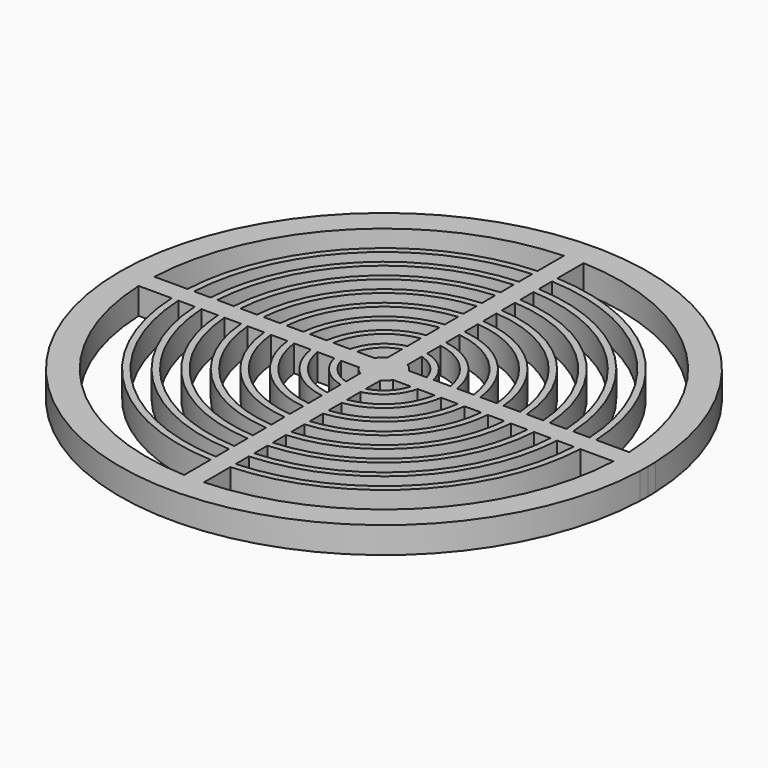
from build123d import *

# Parameters (mm, degrees)
F1_DEPTH = 2


with BuildPart() as f1:
    # F0 (on Top) → F1 (new body)
    with BuildSketch(Plane.XY):
        with BuildLine():
            ThreePointArc((19.985933, -0.75), (19.996483, -0.375066), (20, 0))
            ThreePointArc((20, 0), (19.996483, 0.375066), (19.985933, 0.75))
            ThreePointArc((19.985933, 0.75), (-20, 0), (19.985933, -0.75))
        make_face()
        with BuildLine():
            Line((-0.75, -15.481844), (-0.75, -17.984368))
            ThreePointArc((-0.75, -17.984368), (-12.727922, -12.727922), (-17.984368, -0.75))
            Line((-17.984368, -0.75), (-15.481844, -0.75))
            ThreePointArc((-15.481844, -0.75), (-10.960155, -10.960155), (-0.75, -15.481844))
        make_face(mode=Mode.SUBTRACT)
        with BuildLine():
            Line((-0.75, -13.72953), (-0.75, -14.981238))
            ThreePointArc((-0.75, -14.981238), (-10.606602, -10.606602), (-14.981238, -0.75))
            Line((-14.981238, -0.75), (-13.72953, -0.75))
            ThreePointArc((-13.72953, -0.75), (-9.722718, -9.722718), (-0.75, -13.72953))
        make_face(mode=Mode.SUBTRACT)
        with BuildLine():
            Line((-0.75, -11.97654), (-0.75, -13.228757))
            ThreePointArc((-0.75, -13.228757), (-9.369165, -9.369165), (-13.228757, -0.75))
            Line((-13.228757, -0.75), (-11.97654, -0.75))
            ThreePointArc((-11.97654, -0.75), (-8.485281, -8.485281), (-0.75, -11.97654))
        make_face(mode=Mode.SUBTRACT)
        with BuildLine():
            Line((-0.75, -10.222524), (-0.75, -11.475517))
            ThreePointArc((-0.75, -11.475517), (-8.131728, -8.131728), (-11.475517, -0.75))
            Line((-11.475517, -0.75), (-10.222524, -0.75))
            ThreePointArc((-10.222524, -0.75), (-7.247845, -7.247845), (-0.75, -10.222524))
        make_face(mode=Mode.SUBTRACT)
        with BuildLine():
            Line((-0.75, -8.466847), (-0.75, -9.721111))
            ThreePointArc((-0.75, -9.721111), (-6.894291, -6.894291), (-9.721111, -0.75))
            Line((-9.721111, -0.75), (-8.466847, -0.75))
            ThreePointArc((-8.466847, -0.75), (-6.010408, -6.010408), (-0.75, -8.466847))
        make_face(mode=Mode.SUBTRACT)
        with BuildLine():
            Line((0.75, -13.228757), (0.75, -11.97654))
            ThreePointArc((0.75, -11.97654), (8.485281, -8.485281), (11.97654, -0.75))
            Line((11.97654, -0.75), (13.228757, -0.75))
            ThreePointArc((13.228757, -0.75), (9.369165, -9.369165), (0.75, -13.228757))
        make_face(mode=Mode.SUBTRACT)
        with BuildLine():
            Line((0.75, -9.721111), (0.75, -8.466847))
            ThreePointArc((0.75, -8.466847), (6.010408, -6.010408), (8.466847, -0.75))
            Line((8.466847, -0.75), (9.721111, -0.75))
            ThreePointArc((9.721111, -0.75), (6.894291, -6.894291), (0.75, -9.721111))
        make_face(mode=Mode.SUBTRACT)
        with BuildLine():
            Line((0.75, -11.475517), (0.75, -10.222524))
            ThreePointArc((0.75, -10.222524), (7.247845, -7.247845), (10.222524, -0.75))
            Line((10.222524, -0.75), (11.475517, -0.75))
            ThreePointArc((11.475517, -0.75), (8.131728, -8.131728), (0.75, -11.475517))
        make_face(mode=Mode.SUBTRACT)
        with BuildLine():
            Line((-0.75, -6.708204), (-0.75, -7.964766))
            ThreePointArc((-0.75, -7.964766), (-5.656854, -5.656854), (-7.964766, -0.75))
            Line((-7.964766, -0.75), (-6.708204, -0.75))
            ThreePointArc((-6.708204, -0.75), (-4.772971, -4.772971), (-0.75, -6.708204))
        make_face(mode=Mode.SUBTRACT)
        with BuildLine():
            Line((-0.75, -4.94343), (-0.75, -6.204837))
            ThreePointArc((-0.75, -6.204837), (-4.419417, -4.419417), (-6.204837, -0.75))
            Line((-6.204837, -0.75), (-4.94343, -0.75))
            ThreePointArc((-4.94343, -0.75), (-3.535534, -3.535534), (-0.75, -4.94343))
        make_face(mode=Mode.SUBTRACT)
        with BuildLine():
            Line((-0.75, -3.162278), (-0.75, -4.43706))
            ThreePointArc((-0.75, -4.43706), (-3.181981, -3.181981), (-4.43706, -0.75))
            Line((-4.43706, -0.75), (-3.162278, -0.75))
            ThreePointArc((-3.162278, -0.75), (-2.298097, -2.298097), (-0.75, -3.162278))
        make_face(mode=Mode.SUBTRACT)
        with BuildLine():
            Line((-0.75, -1.299038), (-0.75, -2.645751))
            ThreePointArc((-0.75, -2.645751), (-1.944544, -1.944544), (-2.645751, -0.75))
            Line((-2.645751, -0.75), (-1.299038, -0.75))
            ThreePointArc((-1.299038, -0.75), (-1.06066, -1.06066), (-0.75, -1.299038))
        make_face(mode=Mode.SUBTRACT)
        with BuildLine():
            Line((0.75, -6.204837), (0.75, -4.94343))
            ThreePointArc((0.75, -4.94343), (3.535534, -3.535534), (4.94343, -0.75))
            Line((4.94343, -0.75), (6.204837, -0.75))
            ThreePointArc((6.204837, -0.75), (4.419417, -4.419417), (0.75, -6.204837))
        make_face(mode=Mode.SUBTRACT)
        with BuildLine():
            ThreePointArc((4.43706, -0.75), (3.181981, -3.181981), (0.75, -4.43706))
            Line((0.75, -4.43706), (0.75, -3.162278))
            ThreePointArc((0.75, -3.162278), (2.298097, -2.298097), (3.162278, -0.75))
            Line((3.162278, -0.75), (4.43706, -0.75))
        make_face(mode=Mode.SUBTRACT)
        with BuildLine():
            Line((0.75, -7.964766), (0.75, -6.708204))
            ThreePointArc((0.75, -6.708204), (4.772971, -4.772971), (6.708204, -0.75))
            Line((6.708204, -0.75), (7.964766, -0.75))
            ThreePointArc((7.964766, -0.75), (5.656854, -5.656854), (0.75, -7.964766))
        make_face(mode=Mode.SUBTRACT)
        with BuildLine():
            ThreePointArc((2.645751, -0.75), (1.944544, -1.944544), (0.75, -2.645751))
            Line((0.75, -2.645751), (0.75, -1.299038))
            ThreePointArc((0.75, -1.299038), (1.06066, -1.06066), (1.299038, -0.75))
            Line((1.299038, -0.75), (2.645751, -0.75))
        make_face(mode=Mode.SUBTRACT)
        with BuildLine():
            Line((0.75, -17.984368), (0.75, -15.481844))
            ThreePointArc((0.75, -15.481844), (10.960155, -10.960155), (15.481844, -0.75))
            Line((15.481844, -0.75), (17.984368, -0.75))
            ThreePointArc((17.984368, -0.75), (12.727922, -12.727922), (0.75, -17.984368))
        make_face(mode=Mode.SUBTRACT)
        with BuildLine():
            Line((0.75, -14.981238), (0.75, -13.72953))
            ThreePointArc((0.75, -13.72953), (9.722718, -9.722718), (13.72953, -0.75))
            Line((13.72953, -0.75), (14.981238, -0.75))
            ThreePointArc((14.981238, -0.75), (10.606602, -10.606602), (0.75, -14.981238))
        make_face(mode=Mode.SUBTRACT)
        with BuildLine():
            Line((-11.97654, 0.75), (-13.228757, 0.75))
            ThreePointArc((-13.228757, 0.75), (-9.369165, 9.369165), (-0.75, 13.228757))
            Line((-0.75, 13.228757), (-0.75, 11.97654))
            ThreePointArc((-0.75, 11.97654), (-8.485281, 8.485281), (-11.97654, 0.75))
        make_face(mode=Mode.SUBTRACT)
        with BuildLine():
            Line((-13.72953, 0.75), (-14.981238, 0.75))
            ThreePointArc((-14.981238, 0.75), (-10.606602, 10.606602), (-0.75, 14.981238))
            Line((-0.75, 14.981238), (-0.75, 13.72953))
            ThreePointArc((-0.75, 13.72953), (-9.722718, 9.722718), (-13.72953, 0.75))
        make_face(mode=Mode.SUBTRACT)
        with BuildLine():
            Line((-15.481844, 0.75), (-17.984368, 0.75))
            ThreePointArc((-17.984368, 0.75), (-12.727922, 12.727922), (-0.75, 17.984368))
            Line((-0.75, 17.984368), (-0.75, 15.481844))
            ThreePointArc((-0.75, 15.481844), (-10.960155, 10.960155), (-15.481844, 0.75))
        make_face(mode=Mode.SUBTRACT)
        with BuildLine():
            Line((-0.75, 2.645751), (-0.75, 1.299038))
            ThreePointArc((-0.75, 1.299038), (-1.06066, 1.06066), (-1.299038, 0.75))
            Line((-1.299038, 0.75), (-2.645751, 0.75))
            ThreePointArc((-2.645751, 0.75), (-1.944544, 1.944544), (-0.75, 2.645751))
        make_face(mode=Mode.SUBTRACT)
        with BuildLine():
            Line((-4.94343, 0.75), (-6.204837, 0.75))
            ThreePointArc((-6.204837, 0.75), (-4.419417, 4.419417), (-0.75, 6.204837))
            Line((-0.75, 6.204837), (-0.75, 4.94343))
            ThreePointArc((-0.75, 4.94343), (-3.535534, 3.535534), (-4.94343, 0.75))
        make_face(mode=Mode.SUBTRACT)
        with BuildLine():
            Line((-6.708204, 0.75), (-7.964766, 0.75))
            ThreePointArc((-7.964766, 0.75), (-5.656854, 5.656854), (-0.75, 7.964766))
            Line((-0.75, 7.964766), (-0.75, 6.708204))
            ThreePointArc((-0.75, 6.708204), (-4.772971, 4.772971), (-6.708204, 0.75))
        make_face(mode=Mode.SUBTRACT)
        with BuildLine():
            Line((-3.162278, 0.75), (-4.43706, 0.75))
            ThreePointArc((-4.43706, 0.75), (-3.181981, 3.181981), (-0.75, 4.43706))
            Line((-0.75, 4.43706), (-0.75, 3.162278))
            ThreePointArc((-0.75, 3.162278), (-2.298097, 2.298097), (-3.162278, 0.75))
        make_face(mode=Mode.SUBTRACT)
        with BuildLine():
            Line((2.645751, 0.75), (1.299038, 0.75))
            ThreePointArc((1.299038, 0.75), (1.06066, 1.06066), (0.75, 1.299038))
            Line((0.75, 1.299038), (0.75, 2.645751))
            ThreePointArc((0.75, 2.645751), (1.944544, 1.944544), (2.645751, 0.75))
        make_face(mode=Mode.SUBTRACT)
        with BuildLine():
            Line((4.43706, 0.75), (3.162278, 0.75))
            ThreePointArc((3.162278, 0.75), (2.298097, 2.298097), (0.75, 3.162278))
            Line((0.75, 3.162278), (0.75, 4.43706))
            ThreePointArc((0.75, 4.43706), (3.181981, 3.181981), (4.43706, 0.75))
        make_face(mode=Mode.SUBTRACT)
        with BuildLine():
            Line((6.204837, 0.75), (4.94343, 0.75))
            ThreePointArc((4.94343, 0.75), (3.535534, 3.535534), (0.75, 4.94343))
            Line((0.75, 4.94343), (0.75, 6.204837))
            ThreePointArc((0.75, 6.204837), (4.419417, 4.419417), (6.204837, 0.75))
        make_face(mode=Mode.SUBTRACT)
        with BuildLine():
            Line((7.964766, 0.75), (6.708204, 0.75))
            ThreePointArc((6.708204, 0.75), (4.772971, 4.772971), (0.75, 6.708204))
            Line((0.75, 6.708204), (0.75, 7.964766))
            ThreePointArc((0.75, 7.964766), (5.656854, 5.656854), (7.964766, 0.75))
        make_face(mode=Mode.SUBTRACT)
        with BuildLine():
            Line((-8.466847, 0.75), (-9.721111, 0.75))
            ThreePointArc((-9.721111, 0.75), (-6.894291, 6.894291), (-0.75, 9.721111))
            Line((-0.75, 9.721111), (-0.75, 8.466847))
            ThreePointArc((-0.75, 8.466847), (-6.010408, 6.010408), (-8.466847, 0.75))
        make_face(mode=Mode.SUBTRACT)
        with BuildLine():
            Line((-10.222524, 0.75), (-11.475517, 0.75))
            ThreePointArc((-11.475517, 0.75), (-8.131728, 8.131728), (-0.75, 11.475517))
            Line((-0.75, 11.475517), (-0.75, 10.222524))
            ThreePointArc((-0.75, 10.222524), (-7.247845, 7.247845), (-10.222524, 0.75))
        make_face(mode=Mode.SUBTRACT)
        with BuildLine():
            Line((9.721111, 0.75), (8.466847, 0.75))
            ThreePointArc((8.466847, 0.75), (6.010408, 6.010408), (0.75, 8.466847))
            Line((0.75, 8.466847), (0.75, 9.721111))
            ThreePointArc((0.75, 9.721111), (6.894291, 6.894291), (9.721111, 0.75))
        make_face(mode=Mode.SUBTRACT)
        with BuildLine():
            Line((11.475517, 0.75), (10.222524, 0.75))
            ThreePointArc((10.222524, 0.75), (7.247845, 7.247845), (0.75, 10.222524))
            Line((0.75, 10.222524), (0.75, 11.475517))
            ThreePointArc((0.75, 11.475517), (8.131728, 8.131728), (11.475517, 0.75))
        make_face(mode=Mode.SUBTRACT)
        with BuildLine():
            Line((13.228757, 0.75), (11.97654, 0.75))
            ThreePointArc((11.97654, 0.75), (8.485281, 8.485281), (0.75, 11.97654))
            Line((0.75, 11.97654), (0.75, 13.228757))
            ThreePointArc((0.75, 13.228757), (9.369165, 9.369165), (13.228757, 0.75))
        make_face(mode=Mode.SUBTRACT)
        with BuildLine():
            Line((14.981238, 0.75), (13.72953, 0.75))
            ThreePointArc((13.72953, 0.75), (9.722718, 9.722718), (0.75, 13.72953))
            Line((0.75, 13.72953), (0.75, 14.981238))
            ThreePointArc((0.75, 14.981238), (10.606602, 10.606602), (14.981238, 0.75))
        make_face(mode=Mode.SUBTRACT)
        with BuildLine():
            Line((17.984368, 0.75), (15.481844, 0.75))
            ThreePointArc((15.481844, 0.75), (10.960155, 10.960155), (0.75, 15.481844))
            Line((0.75, 15.481844), (0.75, 17.984368))
            ThreePointArc((0.75, 17.984368), (12.727922, 12.727922), (17.984368, 0.75))
        make_face(mode=Mode.SUBTRACT)
    extrude(amount=F1_DEPTH)


solid = f1.part
